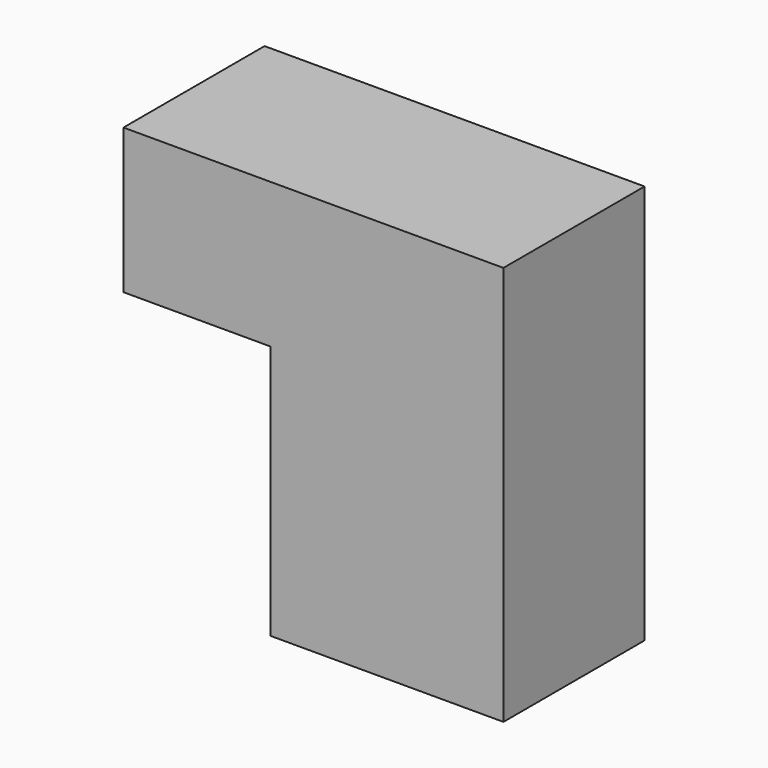
from build123d import *

# Parameters (mm, degrees)
F0_W     = 52.760631
F0_H     = 43.36299
F1_DEPTH = 113.665
F2_W     = 69.720764
F2_H     = 52.760631
F3_DEPTH = 76.2


with BuildPart() as f1:
    # F0 (on Right) → F1 (new body)
    with BuildSketch(Plane.YZ):
        with Locations((-26.380315, 21.681495)):
            Rectangle(F0_W, F0_H)
    extrude(amount=F1_DEPTH)

    # F2 (on face) → F3 (join)
    with BuildSketch(Plane(origin=(0, 0, 0), x_dir=(1, 0, 0), z_dir=(0, 0, -1))):
        with Locations((78.804618, 26.380315)):
            Rectangle(F2_W, F2_H)
    extrude(amount=F3_DEPTH)


solid = f1.part
